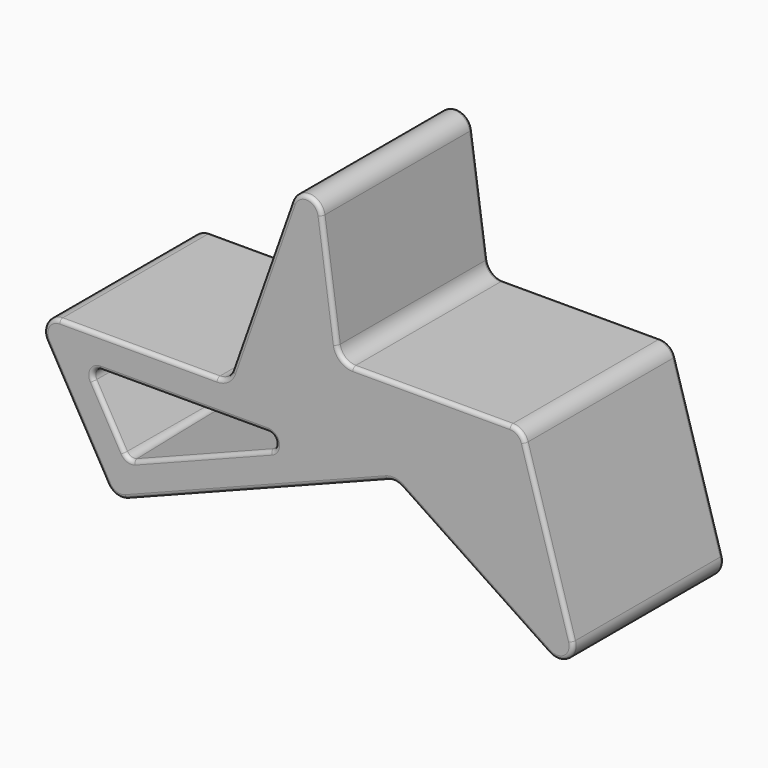
from build123d import *

# Parameters (mm, degrees)
F2_DEPTH = 480
F4_DEPTH = 300
F4_TAPER = 1
F6_DEPTH = 300
F6_TAPER = 1
F7_R     = 10


with BuildPart() as f2:
    # F1 (on Front) → F2 (new body)
    with BuildSketch(Plane.XZ):
        with BuildLine():
            Line((284.6423756698, 350), (-115.3576243302, 350))
            ThreePointArc((-115.3576243302, 350), (-149.9839813655, 330.0253688721), (-150.0279029467, 290.0507699232))
            Line((-150.0279029467, 290.0507699232), (5.3297213835, 20.0507699232))
            ThreePointArc((5.3297213835, 20.0507699232), (26.708175432, 2.2729884611), (54.508971707, 2.724139983))
            Line((54.508971707, 2.724139983), (717.1264287478, 260.6363097458))
            ThreePointArc((717.1264287478, 260.6363097458), (735.9778620424, 263.1240389451), (753.8479931035, 256.6260585136))
            Line((753.8479931035, 256.6260585136), (1128.0860919321, 6.7343912152))
            ThreePointArc((1128.0860919321, 6.7343912152), (1174.0263356031, 7.7975377189), (1188.6514739756, 51.3606137882))
            Line((1188.6514739756, 51.3606137882), (1068.388795021, 457.3606137882))
            ThreePointArc((1068.388795021, 457.3606137882), (1053.9689896491, 478.0501525076), (1030.0360056263, 486))
            Line((1030.0360056263, 486), (630.0360056263, 486))
            ThreePointArc((630.0360056263, 486), (603.7936444666, 495.8116167911), (590.4252828766, 520.4330759616))
            Line((590.4252828766, 520.4330759616), (551.4766605436, 797.5669240384))
            ThreePointArc((551.4766605436, 797.5669240384), (515.8734602584, 831.79874073), (474.1602781502, 805.3522743694))
            Line((474.1602781502, 805.3522743694), (322.3480353135, 376.6477256306))
            ThreePointArc((322.3480353135, 376.6477256306), (307.7281832713, 357.3343377935), (284.6423756698, 350))
        make_face()
    extrude(amount=F2_DEPTH)

    # F3 (on face) → F4 (cut)
    with BuildSketch(Plane.XZ):
        with BuildLine():
            ThreePointArc((1034.5465592324, 165.3894024781), (1057.5166810679, 165.9209757299), (1064.8292502542, 187.7025137645))
            Line((1064.8292502542, 187.7025137645), (1004.4082752566, 391.6803068941))
            ThreePointArc((1004.4082752566, 391.6803068941), (997.1983725706, 402.0250762538), (985.2318805592, 406))
            Line((985.2318805592, 406), (740.1754367642, 406))
            ThreePointArc((740.1754367642, 406), (721.0357386495, 391.8027541802), (729.0691404398, 369.3671956076))
            Line((729.0691404398, 369.3671956076), (1034.5465592324, 165.3894024781))
        make_face()
    extrude(amount=F4_DEPTH, taper=F4_TAPER, mode=Mode.SUBTRACT)

    # F5 (on face) → F6 (cut)
    with BuildSketch(Plane.XZ.offset(480)):
        with BuildLine():
            Line((414.108566285, 270), (-11.6101510435, 270))
            ThreePointArc((-11.6101510435, 270), (-28.9233295612, 260.0126844361), (-28.9452903518, 240.0253849616))
            Line((-28.9452903518, 240.0253849616), (48.9537219951, 104.6426934179))
            ThreePointArc((48.9537219951, 104.6426934179), (59.6429490194, 95.7538026868), (73.5433471569, 95.9793784477))
            Line((73.5433471569, 95.9793784477), (421.3630521385, 231.3620699915))
            ThreePointArc((421.3630521385, 231.3620699915), (433.7650995522, 253.6906232421), (414.108566285, 270))
        make_face()
    extrude(amount=-F6_DEPTH, taper=F6_TAPER, mode=Mode.SUBTRACT)

    # F7
    f7_edges = [f2.edges().sort_by_distance(p)[0] for p in [
        (307.728183, -480, 357.334338),
        (398.254157, -480, 591),
        (84.642376, -480, 350),
        (515.87346, -480, 831.798741),
        (-149.983981, -480, 330.025369),
        (570.950972, -480, 659),
        (-72.349091, -480, 155.05077),
        (603.793644, -480, 495.811617),
        (26.708175, -480, 2.272988),
        (830.036006, -480, 486),
        (385.8177, -480, 131.680225),
        (1053.96899, -480, 478.050153),
        (735.977862, -480, 263.124039),
        (1128.520134, -480, 254.360614),
        (940.967043, -480, 131.680225),
        (1174.026336, -480, 7.797538),
        (201.249208, -480, 270),
        (-28.92333, -480, 260.012684),
        (10.004216, -480, 172.334039),
        (59.642949, -480, 95.753803),
        (247.4532, -480, 163.670724),
        (433.7651, -480, 253.690623),
        (307.728183, 0, 357.334338),
        (398.254157, 0, 591),
        (84.642376, 0, 350),
        (515.87346, 0, 831.798741),
        (-149.983981, 0, 330.025369),
        (570.950972, 0, 659),
        (-72.349091, 0, 155.05077),
        (603.793644, 0, 495.811617),
        (26.708175, 0, 2.272988),
        (830.036006, 0, 486),
        (385.8177, 0, 131.680225),
        (1053.96899, 0, 478.050153),
        (735.977862, 0, 263.124039),
        (1128.520134, 0, 254.360614),
        (940.967043, 0, 131.680225),
        (1174.026336, 0, 7.797538),
        (1057.516681, 0, 165.920976),
        (1034.618763, 0, 289.69141),
        (997.198373, 0, 402.025076),
        (862.703659, 0, 406),
        (721.035739, 0, 391.802754),
        (881.80785, 0, 267.378299),
    ]]
    fillet(f7_edges, radius=F7_R)


solid = f2.part
